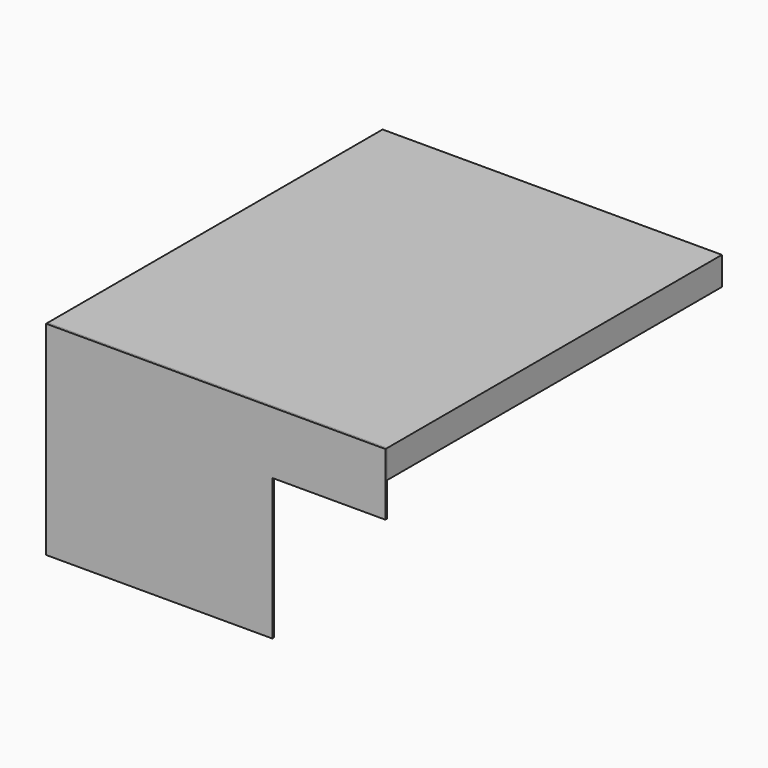
from build123d import *

# Parameters (mm, degrees)
F0_W     = 1524
F0_H     = 127
F1_DEPTH = 1879.6
F2_W     = 1524
F2_H     = 914.4
F3_DEPTH = 9.525
F4_W     = 508
F4_H     = 635
F5_DEPTH = 19.05


with BuildPart() as f1:
    # F0 (on Front) → F1 (new body)
    with BuildSketch(Plane.XZ):
        with Locations((0, 13.233984)):
            Rectangle(F0_W, F0_H)
    extrude(amount=-F1_DEPTH)


with BuildPart() as f3:
    # F2 (on face) → F3 (new body)
    with BuildSketch(Plane.XZ):
        with Locations((0, -380.466016)):
            Rectangle(F2_W, F2_H)
    extrude(amount=F3_DEPTH)

    # F4 (on face) → F5 (cut)
    with BuildSketch(Plane.XZ.offset(9.525)):
        with Locations((508, -520.166016)):
            Rectangle(F4_W, F4_H)
    extrude(amount=-F5_DEPTH, mode=Mode.SUBTRACT)


solid = Compound([f1.part, f3.part])
